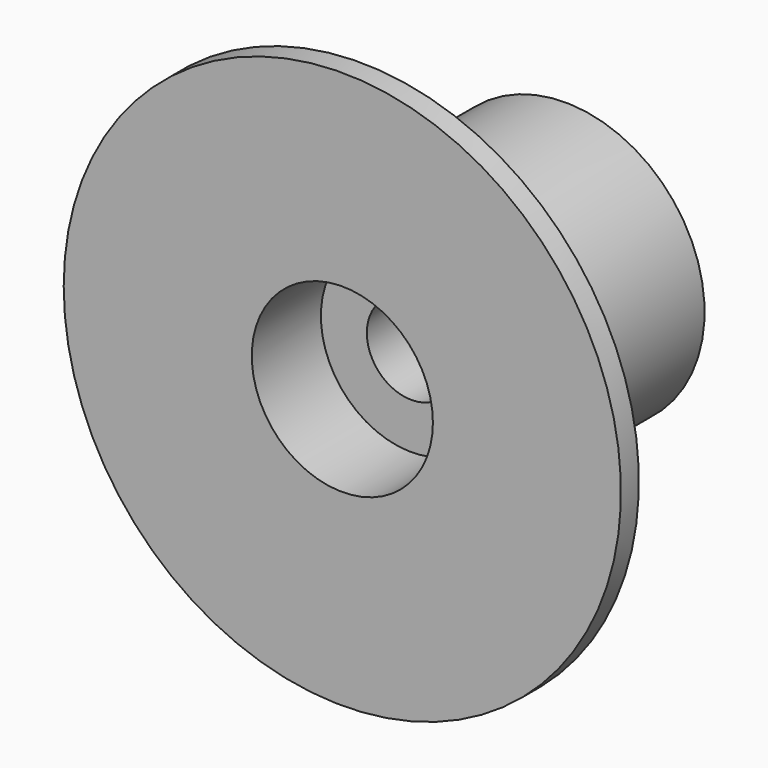
from build123d import *

# Parameters (mm, degrees)
HOLE001_D           = 3.2
HOLE001_DEPTH       = 10
HOLE001_CBORE_D     = 6.5
HOLE001_CBORE_DEPTH = 3.1
HOLE001_TIPS_R      = 1.6


with BuildPart() as part:
    # Sketch060 → Revolution001 (revolve)
    with BuildSketch(Plane.XY):
        Polygon((0, 0), (-5, 0), (-5, -5), (-10, -9.195498), (-10, -10), (0, -10), align=None)
    revolve(axis=Axis((0, 0, 0), (0, 1, 0)))

    # Hole001
    with Locations(Plane.XZ.offset(10)):
        with Locations((0, 0)):
            CounterBoreHole(HOLE001_D / 2, HOLE001_CBORE_D / 2, HOLE001_CBORE_DEPTH, depth=HOLE001_DEPTH)

    # Hole001 tips → Hole001 tip 1 section 0
    with BuildSketch(Plane.XZ, mode=Mode.PRIVATE) as hole001_tip_1_s0:
        Circle(HOLE001_TIPS_R)
    loft([hole001_tip_1_s0.sketch, Vertex(0, 0.961377, 0)], mode=Mode.SUBTRACT)


with BuildPart() as part_1:
    # Body008 placement: moved
    add(part.part.moved(Location((0, -172, -53.5))))


solid = part_1.part
